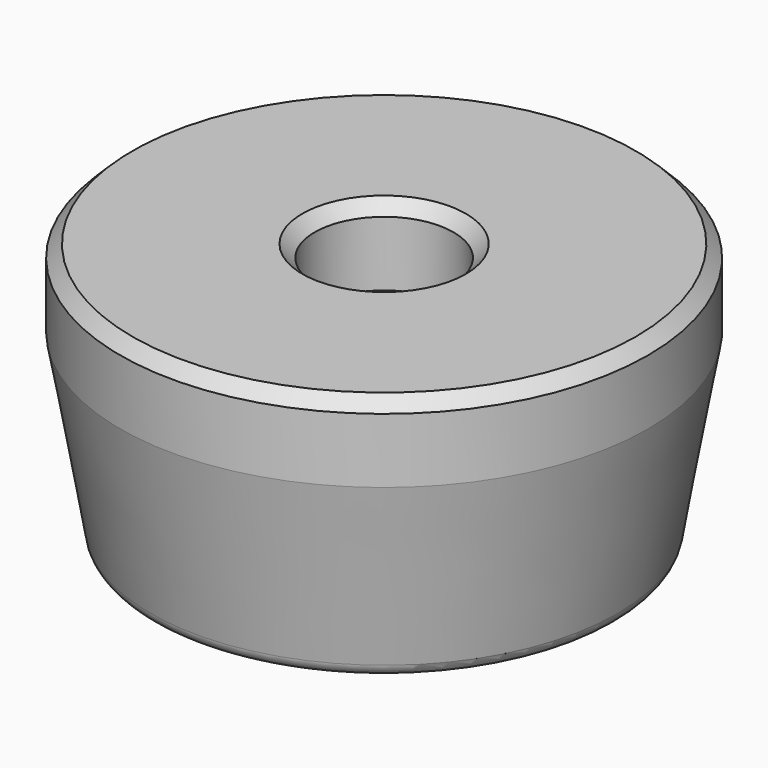
from build123d import *

# Parameters (mm, degrees)
FILLET_R     = 0.5
CHAMFER_SIZE = 0.4


with BuildPart() as part:
    # Sketch → Revolution (revolve)
    with BuildSketch(Plane.XZ):
        Polygon((2.25, 0), (2.25, 2.5), (8.557962, 2.5), (8.557962, 0), (7.5, -6), (4.25, -6), (4.25, 0), align=None)
    revolve(axis=Axis((0, 0, 0), (0, 0, 1)))

    # Fillet
    fillet_edges = [part.edges().sort_by_distance(p)[0] for p in [
        (-7.5, 0, -6),
        (-4.25, 0, -6),
    ]]
    fillet(fillet_edges, radius=FILLET_R)

    # Chamfer
    chamfer_edges = [part.edges().sort_by_distance(p)[0] for p in [
        (-2.25, 0, 2.5),
        (-8.557962, 0, 2.5),
    ]]
    chamfer(chamfer_edges, length=CHAMFER_SIZE)


solid = part.part
